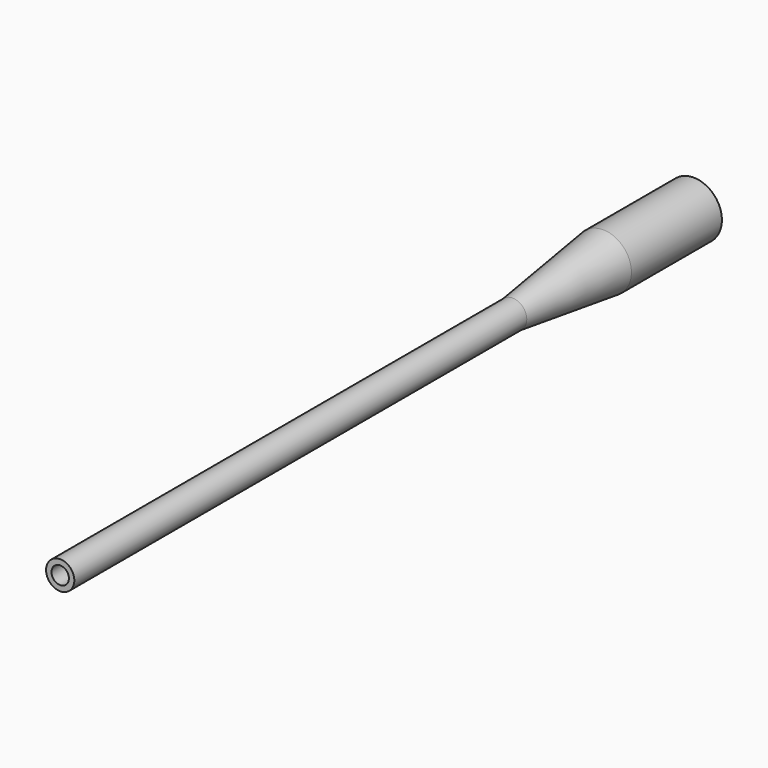
from build123d import *

# Parameters (mm, degrees)
F0_R     = 6.35
F1_DEPTH = 254
F5_R     = 12.7
F6_DEPTH = 50.8
F4_R     = 12.7
F8_R     = 3.9116
F9_DEPTH = 406.4


with BuildPart() as f1:
    # F0 (on Front) → F1 (new body)
    with BuildSketch(Plane.XZ):
        Circle(F0_R)
    extrude(amount=F1_DEPTH)



with BuildPart() as f6:
    # F5 (on offset) → F6 (new body)
    with BuildSketch(Plane.XZ.offset(-101.6)):
        Circle(F5_R)
    extrude(amount=F6_DEPTH)


with BuildPart() as f1_1:
    add(f1.part)

    add(f6.part)  # F7 merges F6
    # F4 (on offset) → F7 section 0
    with BuildSketch(Plane.XZ.offset(-50.8)):
        Circle(F4_R)
    # F0 (on Front) → F7 section 1
    with BuildSketch(Plane.XZ):
        Circle(F0_R)
    loft()

    # F8 (on face) → F9 (cut)
    with BuildSketch(Plane.XZ.offset(-101.6)):
        Circle(F8_R)
    extrude(amount=F9_DEPTH, mode=Mode.SUBTRACT)


solid = f1_1.part
